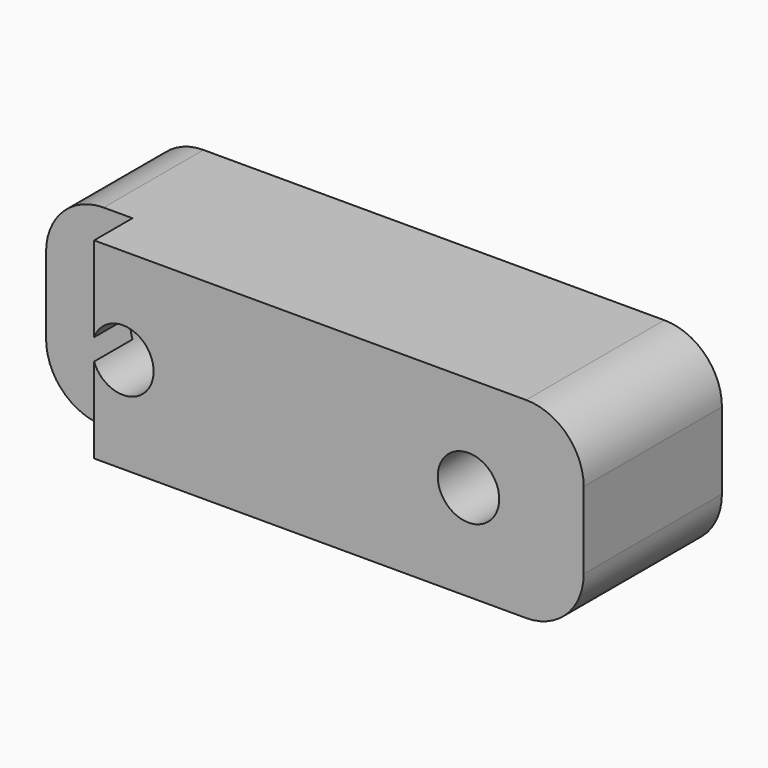
from build123d import *

# Parameters (mm, degrees)
BOX324_W          = 10
BOX324_H          = 2.5
BOX324_DEPTH      = 10
CYLINDER152_R     = 1.6
CYLINDER152_DEPTH = 9
CYLINDER153_R     = 1.6
CYLINDER153_DEPTH = 9
CYLINDER154_R     = 1.6
CYLINDER154_DEPTH = 9
CYLINDER155_R     = 1.6
CYLINDER155_DEPTH = 9
BOX071_W          = 30
BOX071_H          = 9
BOX071_DEPTH      = 10
FILLET038_R       = 3


with BuildPart() as cube395:
    # Box324 → Box324 (new body)
    with BuildSketch(Plane(origin=(429.5, 72, 5), x_dir=(1, 0, 0), z_dir=(0, 0, 1))):
        with Locations((5, 1.25)):
            Rectangle(BOX324_W, BOX324_H)
    extrude(amount=BOX324_DEPTH)


with BuildPart() as cylinder152:
    # Cylinder152 → Cylinder152 (new body)
    with BuildSketch(Plane(origin=(555, -5, 10), x_dir=(1, 0, 0), z_dir=(0, -1, 0))):
        Circle(CYLINDER152_R)
    extrude(amount=CYLINDER152_DEPTH)


with BuildPart() as fusion125:
    # Cylinder153 → Cylinder153 (new body)
    with BuildSketch(Plane(origin=(450, -5, 10), x_dir=(1, 0, 0), z_dir=(0, -1, 0))):
        Circle(CYLINDER153_R)
    extrude(amount=CYLINDER153_DEPTH)

    # Fusion125: union Cylinder152
    add(cylinder152.part)


with BuildPart() as fusion125_1:
    # Fusion125 placement: moved
    add(fusion125.part.moved(Location((-9, 5, 0))))


with BuildPart() as cylinder154:
    # Cylinder154 → Cylinder154 (new body)
    with BuildSketch(Plane(origin=(555, -5, 10), x_dir=(1, 0, 0), z_dir=(0, -1, 0))):
        Circle(CYLINDER154_R)
    extrude(amount=CYLINDER154_DEPTH)


with BuildPart() as fusion142:
    # Cylinder155 → Cylinder155 (new body)
    with BuildSketch(Plane(origin=(450, -5, 10), x_dir=(1, 0, 0), z_dir=(0, -1, 0))):
        Circle(CYLINDER155_R)
    extrude(amount=CYLINDER155_DEPTH)

    # Fusion132: union Cylinder154
    add(cylinder154.part)


with BuildPart() as fusion142_1:
    # Fusion132 placement: moved
    add(fusion142.part.moved(Location((9, 5, 0))))

    # Fusion142: union Fusion125
    add(fusion125_1.part)


with BuildPart() as fender_spacer_front_right:
    # Box071 → Box071 (new body)
    with BuildSketch(Plane(origin=(435, -9, 5), x_dir=(1, 0, 0), z_dir=(0, 0, 1))):
        with Locations((15, 4.5)):
            Rectangle(BOX071_W, BOX071_H)
    extrude(amount=BOX071_DEPTH)

    # Fillet038
    fillet038_edges = [fender_spacer_front_right.edges().sort_by_distance(p)[0] for p in [
        (435, -4.5, 15),
        (435, -4.5, 5),
        (465, -4.5, 15),
        (465, -4.5, 5),
    ]]
    fillet(fillet038_edges, radius=FILLET038_R)

    # Cut086: cut Fusion142
    add(fusion142_1.part, mode=Mode.SUBTRACT)


with BuildPart() as fender_spacer_front_right_1:
    # Cut086 placement: moved
    add(fender_spacer_front_right.part.moved(Location((0, 81, 0))))

    # Cut323: cut Cube395
    add(cube395.part, mode=Mode.SUBTRACT)


solid = fender_spacer_front_right_1.part
